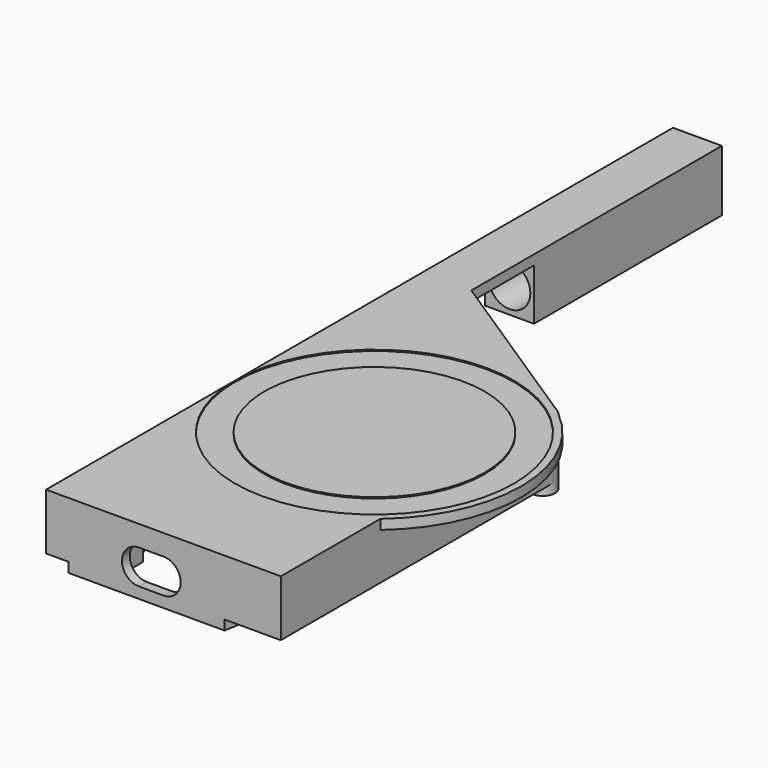
from build123d import *

# Parameters (mm, degrees)
PAD_DEPTH            = 2
SKETCH001_R          = 2.5
SKETCH001_R_2        = 1
PAD003_DEPTH         = 11.5
SKETCH003_R          = 3
SKETCH003_R_2        = 1
PAD004_DEPTH         = 10.5
SKETCH006_R          = 2
SKETCH006_R_2        = 1
PAD007_DEPTH         = 1.25
PAD010_DEPTH         = 2
SKETCH008_W          = 10
SKETCH008_H          = 48
PAD009_DEPTH         = 10.5
SKETCH009_R          = 4.25
POCKET_DEPTH         = 47
PAD011_DEPTH         = 11.5
POCKET001_DEPTH      = 2
PAD012_DEPTH         = 11.5
POCKET002_DEPTH      = 2
SKETCH017_R          = 2
POCKET003_DEPTH      = 100
POCKET003_DEPTH_BACK = 100
POCKET004_DEPTH      = 3
POCKET005_DEPTH      = 3
POCKET006_DEPTH      = 9.5
PAD013_DEPTH         = 2
SKETCH023_R          = 28.5
SKETCH023_R_2        = 22.5
POCKET007_DEPTH      = 0.25


with BuildPart() as body:
    # Sketch → Pad (new body)
    with BuildSketch(Plane.XY):
        with BuildLine():
            Line((1.6382610688, 84.5131853633), (39.8652231068, 59.5943175186))
            ThreePointArc((40.9665622412, 57.0924822575), (40.788108314, 58.5072538624), (39.8652231068, 59.5943175186))
            Line((31.4665652521, -0.4074995185), (40.9665622412, 57.0924822575))
            Line((31.4665652521, -0.4074995185), (29.4686738682, -12.5))
            Line((-2.4238255474, -12.5), (29.4686738682, -12.5))
            Line((-2.999944227, 81.9817069741), (-2.4238255474, -12.5))
            ThreePointArc((1.6382610688, 84.5131853633), (-1.4372337891, 84.6333171164), (-2.999944227, 81.9817069741))
        make_face()
    extrude(amount=PAD_DEPTH)

    # Sketch001 (on Face9 of Pad) → Pad003 (join)
    with BuildSketch(Plane.XY.offset(2)):
        Circle(SKETCH001_R)
        Circle(SKETCH001_R_2, mode=Mode.SUBTRACT)
        with Locations((29, 0)):
            Circle(SKETCH001_R)
        with Locations((29, 0)):
            Circle(SKETCH001_R_2, mode=Mode.SUBTRACT)
        with Locations((38.5, 57.5)):
            Circle(SKETCH001_R)
        with Locations((38.5, 57.5)):
            Circle(SKETCH001_R_2, mode=Mode.SUBTRACT)
    extrude(amount=PAD003_DEPTH)

    # Sketch003 (on Face5 of Pad003) → Pad004 (join)
    with BuildSketch(Plane.XY.offset(2)):
        with Locations((0, 82)):
            Circle(SKETCH003_R)
        with Locations((0, 82)):
            Circle(SKETCH003_R_2, mode=Mode.SUBTRACT)
    extrude(amount=PAD004_DEPTH)

    # Sketch006 (on Face11 of Pad004) → Pad007 (join)
    with BuildSketch(Plane.XY.offset(12.5)):
        with Locations((0, 82)):
            Circle(SKETCH006_R)
        with Locations((0, 82)):
            Circle(SKETCH006_R_2, mode=Mode.SUBTRACT)
    extrude(amount=PAD007_DEPTH)

    # Sketch011 → Pad010 (join)
    with BuildSketch(Plane.XY):
        with BuildLine():
            Line((-7, 147.625513661), (3, 147.625513661))
            Line((3, 147.625513661), (3, 83.625513661))
            Line((1.6382610688, 84.5131853633), (3, 83.625513661))
            ThreePointArc((1.6382610688, 84.5131853633), (-1.4372359533, 84.6333159352), (-2.9999441969, 81.9817020431))
            Line((-2.9999441969, 81.9817020431), (-2.9694558253, 76.9817020431))
            Line((-7, 82), (-2.9694558253, 76.9817020431))
            Line((-7, 147.625513661), (-7, 82))
        make_face()
    extrude(amount=PAD010_DEPTH)

    # Sketch008 (on Face13 of Pad010) → Pad009 (join)
    with BuildSketch(Plane.XY.offset(2)):
        with Locations((-2, 123.625513661)):
            Rectangle(SKETCH008_W, SKETCH008_H)
    extrude(amount=PAD009_DEPTH)

    # Sketch009 (on Face22 of Pad009) → Pocket (cut)
    with BuildSketch(Plane.XZ.offset(-99.625513661)):
        with Locations((-2, 7.25)):
            Circle(SKETCH009_R)
    extrude(amount=-POCKET_DEPTH, mode=Mode.SUBTRACT)

    # Sketch012 (on Face4 of Pocket) → Pad011 (join)
    with BuildSketch(Plane.XY.offset(2)):
        with BuildLine():
            Line((4.5, 0), (2.5, 0))
            ThreePointArc((-2.4999535249, -0.0152438001), (0.0076219355, -2.4999883812), (2.5, 0))
            Line((-2.4238255474, -12.5), (-2.4999535249, -0.0152438001))
            Line((-2.4238255474, -12.5), (29.4686738682, -12.5))
            Line((29.4686738682, -12.5), (31.4665652521, -0.4074995185))
            ThreePointArc((26.4999999999, 0), (28.7955655729, -2.4916272926), (31.4665652521, -0.4074995185))
            Line((24.5, 0), (26.4999999999, 0))
            Line((24.5, 0), (24.5, -10.5))
            Line((4.5, -10.5), (24.5, -10.5))
            Line((4.5, 0), (4.5, -10.5))
        make_face()
    extrude(amount=PAD011_DEPTH)

    # Sketch013 (on Face16 of Pad011) → Pocket001 (cut)
    with BuildSketch(Plane(origin=(0, -10.5, 0), x_dir=(-1, 0, 0), z_dir=(0, 1, 0))):
        with BuildLine():
            ThreePointArc((-17, 11.25), (-20.5, 7.75), (-17, 4.25))
            Line((-17, 4.25), (-12, 4.25))
            ThreePointArc((-12, 4.25), (-8.5, 7.75), (-12, 11.25))
            Line((-17, 11.25), (-12, 11.25))
        make_face()
    extrude(amount=-POCKET001_DEPTH, mode=Mode.SUBTRACT)

    # Sketch014 → Pad012 (join)
    with BuildSketch(Plane.XY):
        Polygon((-7, 82), (-2.9694558253, 76.9817020431), (-2.4238255474, -12.5), (-7, -12.5), align=None)
        Polygon((40.9665622412, 57.0924822575), (29.4686738682, -12.5), (40.9665622412, -12.5), align=None)
    extrude(amount=PAD012_DEPTH)

    # Sketch016 (on DatumPlane) → Pocket002 (cut)
    with BuildSketch(Plane.YZ.offset(37.9665622412)):
        Polygon((51.6569219382, 6.75), (49.5784609691, 10.35), (45.4215390309, 10.35), (43.3430780618, 6.75), (45.4215390309, 3.15), (49.5784609691, 3.15), align=None)
    extrude(amount=POCKET002_DEPTH, mode=Mode.SUBTRACT)

    # Sketch017 (on DatumPlane) → Pocket003 (cut, two sides)
    with BuildSketch(Plane.YZ.offset(37.9665622412)) as pocket003_sk:
        with Locations((47.5, 6.75)):
            Circle(SKETCH017_R)
    extrude(amount=-POCKET003_DEPTH, mode=Mode.SUBTRACT)
    extrude(pocket003_sk.sketch, amount=POCKET003_DEPTH_BACK, mode=Mode.SUBTRACT)

    # Sketch018 (on Face13 of Pocket003) → Pocket004 (cut)
    with BuildSketch(Plane(origin=(-2.4999535243, -0.0152439024, 0), x_dir=(-0.006097561, 0.9999814097, 0), z_dir=(0.9999814097, 0.006097561, 0))):
        Polygon((51.6730491796, 6.75), (49.5945882105, 10.35), (45.4376662723, 10.35), (43.3592053032, 6.75), (45.4376662723, 3.15), (49.5945882105, 3.15), align=None)
    extrude(amount=-POCKET004_DEPTH, mode=Mode.SUBTRACT)

    # Sketch019 (on Face45 of Pocket004) → Pocket005 (cut)
    with BuildSketch(Plane.XY.offset(13.5)):
        with BuildLine():
            ThreePointArc((-2.4999535248, -0.0152438096), (0.0076219402, -2.4999883812), (2.5, 0))
            Line((2.5, 0), (4.5, 0))
            Line((4.5, 0), (4.5, -2.1794494718))
            ThreePointArc((-2.5263567378, 4.3148026181), (-3.3937655316, -3.671832719), (4.5, -2.1794494718))
            Line((-2.5263567378, 4.3148026181), (-2.4999535248, -0.0152438096))
        make_face()
        with BuildLine():
            ThreePointArc((24.5, -2.1794494718), (32.0941134062, -3.9276535272), (32.172405562, 3.8646918312))
            Line((31.4665660971, -0.4074944038), (32.172405562, 3.8646918312))
            ThreePointArc((26.4999999999, 0), (28.7955681562, -2.4916275046), (31.4665660971, -0.4074944038))
            Line((24.5, 0), (26.4999999999, 0))
            Line((24.5, -2.1794494718), (24.5, 0))
        make_face()
    extrude(amount=-POCKET005_DEPTH, mode=Mode.SUBTRACT)

    # Sketch021 (on Face38 of Pocket005) → Pocket006 (cut)
    with BuildSketch(Plane.XY.offset(11.5)):
        with BuildLine():
            ThreePointArc((-2.9694558253, 76.9817020431), (-4.3800712285, 76.387303242), (-4.9572235227, 74.9695441018))
            Line((-4.9572235227, 74.9695441018), (-4.8535649862, 57.9698601368))
            ThreePointArc((-4.8535649862, 57.9698601368), (-4.259166185, 56.5592447336), (-2.8414070448, 55.9820924394))
            Line((-2.8414070448, 55.9820924394), (-2.9694558253, 76.9817020431))
        make_face()
    extrude(amount=-POCKET006_DEPTH, mode=Mode.SUBTRACT)

    # Sketch022 → Pad013 (join)
    with BuildSketch(Plane.XY):
        with BuildLine():
            Line((40.9665622412, 12.9282777021), (40.9665622412, 57.0924822575))
            ThreePointArc((40.9665622412, 57.0924822575), (40.9384086484, 58.0515099848), (40.5511157715, 58.9293089561))
            ThreePointArc((40.9665622412, 12.9282777021), (51.4987766247, 36.0257883104), (40.5511157715, 58.9293089561))
        make_face()
    extrude(amount=PAD013_DEPTH)

    # Sketch023 (on Face7 of Pad013) → Pocket007 (cut)
    with BuildSketch(Plane(origin=(0, 0, 0), x_dir=(1, 0, 0), z_dir=(0, 0, -1))):
        with Locations((21.5, -35.7548620833)):
            Circle(SKETCH023_R)
        with Locations((21.5, -35.7548620833)):
            Circle(SKETCH023_R_2, mode=Mode.SUBTRACT)
    extrude(amount=-POCKET007_DEPTH, mode=Mode.SUBTRACT)


with BuildPart() as part_mirroring:
    # Part__Mirroring: instance of Body
    add(body.part.mirror(Plane(origin=(0, 0, 0), x_dir=(0, 1, 0), z_dir=(0, 0, 1))))


solid = part_mirroring.part
